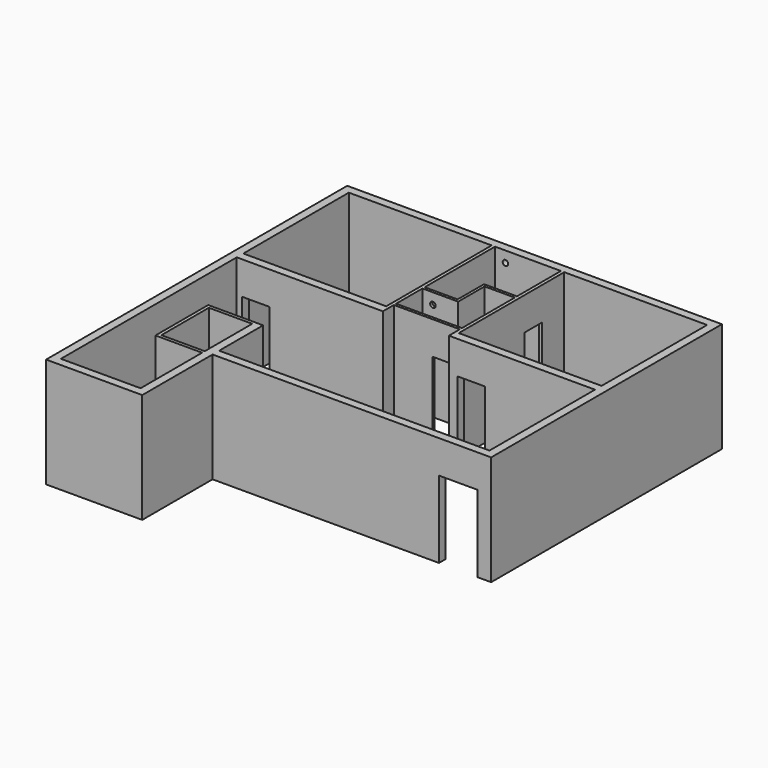
from build123d import *

# Parameters (mm, degrees)
F0_W      = 100.33
F0_H      = 137.16
F0_W_2    = 330.2
F0_H_2    = 304.8
F1_DEPTH  = 254
F2_W      = 50.8
F2_H      = 177.8
F3_DEPTH  = 25.4
F4_W      = 50.8
F4_H      = 177.8
F5_DEPTH  = 177.8
F6_W      = 63.5
F6_H      = 177.8
F7_DEPTH  = 25.4
F8_W      = 63.5
F8_H      = 177.8
F9_DEPTH  = 25.4
F10_W     = 88.9
F10_H     = 177.8
F11_DEPTH = 25.4
F12_R     = 6.35
F13_DEPTH = 228.6


with BuildPart() as f1:
    # F0 (on Top) → F1 (new body)
    with BuildSketch(Plane.XY):
        Polygon((847.09, 19.05), (-19.05, 19.05), (-19.05, -323.85), (-19.05, -850.9), (203.2, -850.9), (203.2, -647.7), (847.09, -647.7), align=None)
        with Locations((133.985, -577.85)):
            Rectangle(F0_W, F0_H, mode=Mode.SUBTRACT)
        Polygon((828.04, -628.65), (203.2, -628.65), (203.2, -501.65), (76.2, -501.65), (76.2, -654.05), (184.15, -654.05), (184.15, -831.85), (0, -831.85), (0, -323.85), (337.82, -323.85), (337.82, -292.1), (490.22, -292.1), (490.22, -323.85), (668.02, -323.85), (675.64, -323.85), (828.04, -323.85), (828.04, -450.85), (828.04, -458.47), align=None, mode=Mode.SUBTRACT)
        with Locations((165.1, -152.4)):
            Rectangle(F0_W_2, F0_H_2, mode=Mode.SUBTRACT)
        Polygon((337.82, -285.75), (337.82, -209.55), (420.37, -209.55), (420.37, -133.35), (490.22, -133.35), (490.22, -285.75), align=None, mode=Mode.SUBTRACT)
        Polygon((337.82, -203.2), (337.82, 0), (490.22, 0), (490.22, -127), (414.02, -127), (414.02, -203.2), align=None, mode=Mode.SUBTRACT)
        with Locations((662.94, -152.4)):
            Rectangle(F0_W_2, F0_H_2, mode=Mode.SUBTRACT)
    extrude(amount=F1_DEPTH)

    # F2 (on face) → F3 (cut)
    with BuildSketch(Plane.XZ.offset(292.1)):
        with Locations((452.12, 88.9)):
            Rectangle(F2_W, F2_H)
    extrude(amount=-F3_DEPTH, mode=Mode.SUBTRACT)

    # F4 (on face) → F5 (cut)
    with BuildSketch(Plane.YZ.offset(497.84)):
        with Locations((-88.9, 88.9)):
            Rectangle(F4_W, F4_H)
    extrude(amount=-F5_DEPTH, mode=Mode.SUBTRACT)

    # F6 (on face) → F7 (cut)
    with BuildSketch(Plane.XZ.offset(323.85)):
        with Locations((44.45, 88.9)):
            Rectangle(F6_W, F6_H)
    extrude(amount=-F7_DEPTH, mode=Mode.SUBTRACT)

    # F8 (on face) → F9 (cut)
    with BuildSketch(Plane.XZ.offset(323.85)):
        with Locations((542.29, 88.9)):
            Rectangle(F8_W, F8_H)
    extrude(amount=-F9_DEPTH, mode=Mode.SUBTRACT)

    # F10 (on face) → F11 (cut)
    with BuildSketch(Plane.XZ.offset(647.7)):
        with Locations((770.89, 88.9)):
            Rectangle(F10_W, F10_H)
    extrude(amount=-F11_DEPTH, mode=Mode.SUBTRACT)

    # F12 (on face) → F13 (cut)
    with BuildSketch(Plane.XZ.offset(209.55)):
        with Locations((361.95, 228.6)):
            Circle(F12_R)
    extrude(amount=-F13_DEPTH, mode=Mode.SUBTRACT)


solid = f1.part
